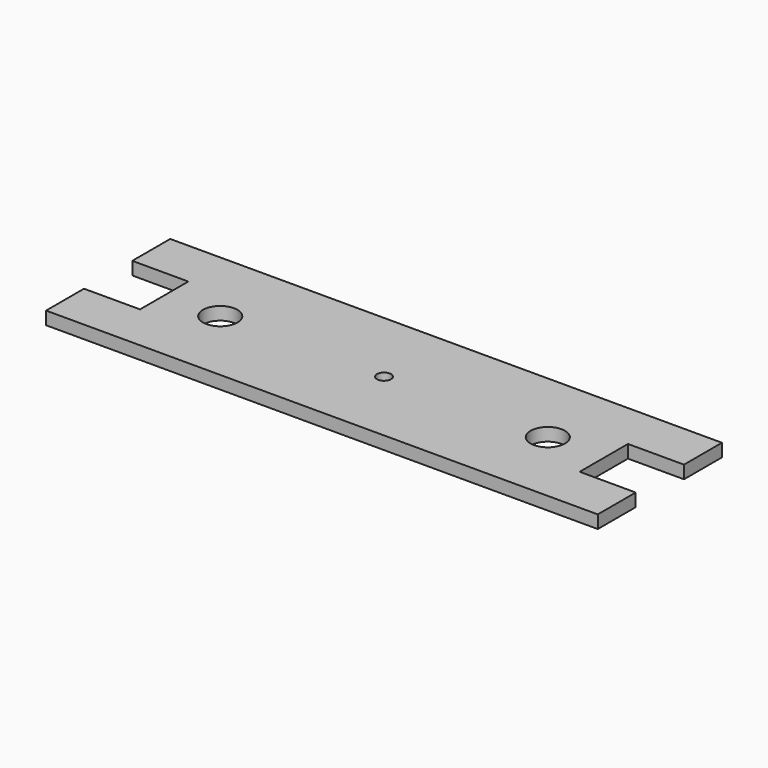
from build123d import *

# Parameters (mm, degrees)
F0_R     = 25.4
F1_DEPTH = 19.05
F3_D     = 20.6375


with BuildPart() as f1:
    # F0 (on Top) → F1 (new body)
    with BuildSketch(Plane.XY):
        Polygon((406.4, 114.3), (-406.4, 114.3), (-406.4, 44.45), (-323.85, 44.45), (-323.85, -44.45), (-406.4, -44.45), (-406.4, -114.3), (406.4, -114.3), (406.4, -44.45), (323.85, -44.45), (323.85, 44.45), (406.4, 44.45), align=None)
        with Locations((-241.3, 0)):
            Circle(F0_R, mode=Mode.SUBTRACT)
        with Locations((241.3, 0)):
            Circle(F0_R, mode=Mode.SUBTRACT)
    extrude(amount=F1_DEPTH)

    # F3 (through all)
    with Locations(Plane.XY.offset(19.05)):
        with Locations((0, 0)):
            Hole(F3_D / 2)


solid = f1.part
